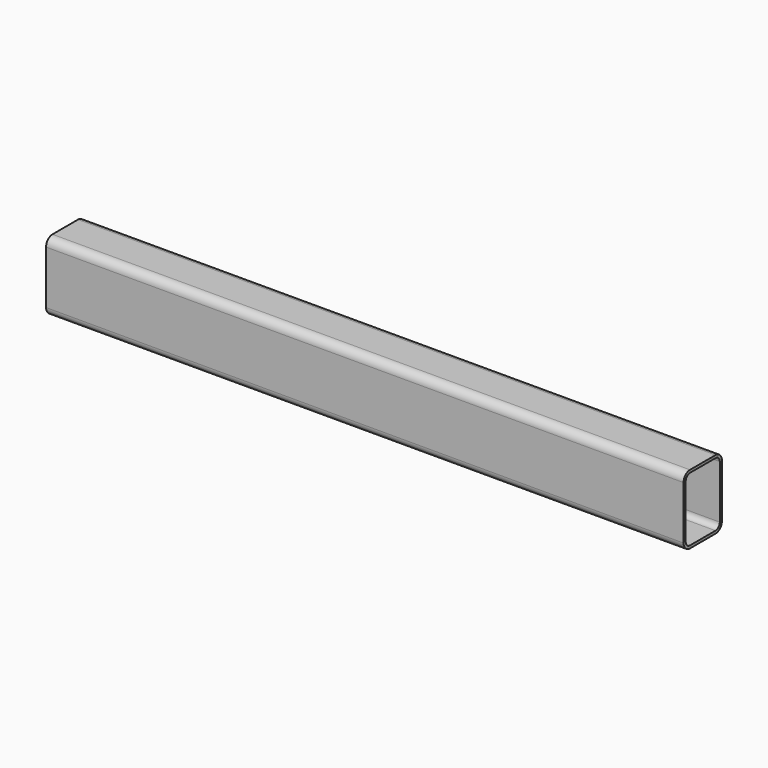
from build123d import *

# Parameters (mm, degrees)
F1_DEPTH = 1520.825


with BuildPart() as f1:
    # F0 (on Right) → F1 (new body)
    with BuildSketch(Plane.YZ):
        with BuildLine():
            ThreePointArc((14.565218, -85.089722), (28.035602, -79.510106), (33.615218, -66.039722))
            Line((33.615218, -66.039722), (33.615218, 60.960278))
            ThreePointArc((33.615218, 60.960278), (28.035602, 74.430662), (14.565218, 80.010278))
            Line((14.565218, 80.010278), (-61.634782, 80.010278))
            ThreePointArc((-61.634782, 80.010278), (-75.105166, 74.430662), (-80.684782, 60.960278))
            Line((-80.684782, 60.960278), (-80.684782, -66.039722))
            ThreePointArc((-80.684782, -66.039722), (-75.105166, -79.510106), (-61.634782, -85.089722))
            Line((-61.634782, -85.089722), (14.565218, -85.089722))
        make_face()
        with BuildLine():
            ThreePointArc((27.265218, -66.039722), (23.545474, -75.019978), (14.565218, -78.739722))
            Line((14.565218, -78.739722), (-61.634782, -78.739722))
            ThreePointArc((-61.634782, -78.739722), (-70.615038, -75.019978), (-74.334782, -66.039722))
            Line((-74.334782, -66.039722), (-74.334782, 60.960278))
            ThreePointArc((-74.334782, 60.960278), (-70.615038, 69.940534), (-61.634782, 73.660278))
            Line((-61.634782, 73.660278), (14.565218, 73.660278))
            ThreePointArc((14.565218, 73.660278), (23.545474, 69.940534), (27.265218, 60.960278))
            Line((27.265218, 60.960278), (27.265218, -66.039722))
        make_face(mode=Mode.SUBTRACT)
    extrude(amount=F1_DEPTH)


solid = f1.part
